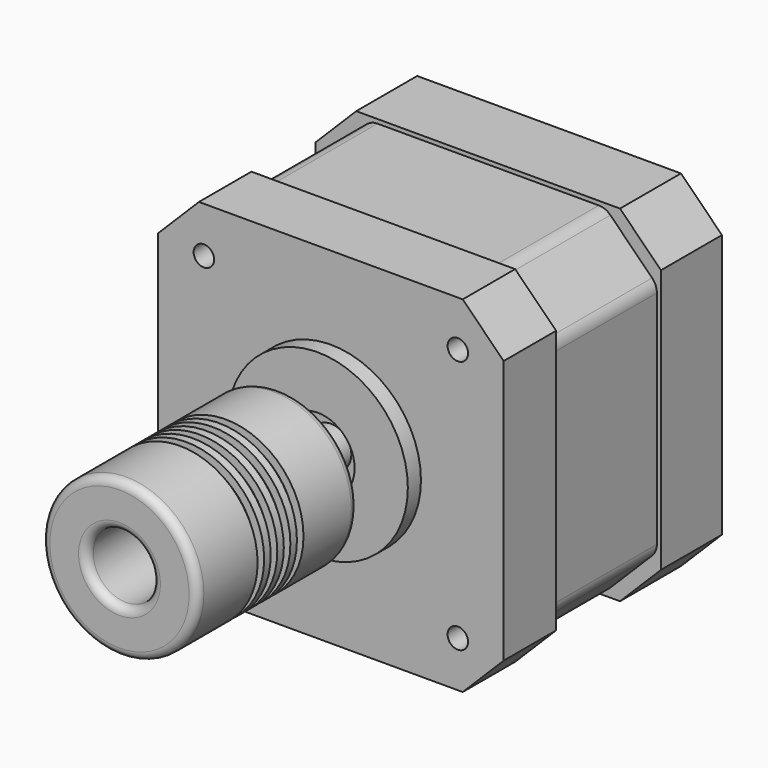
from build123d import *

# Parameters (mm, degrees)
F0_W      = 42.2
F0_H      = 42.2
F0_R      = 2.5
F1_DEPTH  = 33.3
F2_SIZE   = 5
F3_DEPTH  = 20
F4_R      = 11
F4_R_2    = 4.5
F5_DEPTH  = 2
F6_R      = 1.25
F7_DEPTH  = 5
F9_W      = 50.7564134896
F9_H      = 50.1955691725
F10_DEPTH = 16
F11_R     = 2
F12_R     = 9.5
F13_DEPTH = 12.25
F14_R     = 4
F15_DEPTH = 12.7
F16_R     = 1
F17_W     = 1
F17_H     = 1


with BuildPart() as f1:
    # F0 (on Front) → F1 (new body)
    with BuildSketch(Plane.XZ):
        Rectangle(F0_W, F0_H)
        Circle(F0_R, mode=Mode.SUBTRACT)
        Circle(F0_R)
    extrude(amount=-F1_DEPTH)

    # F2
    f2_edges = [f1.edges().sort_by_distance(p)[0] for p in [
        (21.1, 16.65, 21.1),
        (-21.1, 16.65, 21.1),
        (21.1, 16.65, -21.1),
        (-21.1, 16.65, -21.1),
    ]]
    chamfer(f2_edges, length=F2_SIZE)

    # F0 (on Front) → F3 (join)
    with BuildSketch(Plane.XZ):
        Circle(F0_R)
    extrude(amount=F3_DEPTH)

    # F4 (on face) → F5 (join)
    with BuildSketch(Plane.XZ):
        Circle(F4_R)
        Circle(F4_R_2, mode=Mode.SUBTRACT)
    extrude(amount=F5_DEPTH)

    # F6 (on face) → F7 (cut)
    with BuildSketch(Plane.XZ):
        with Locations((-15.5, 15.5)):
            Circle(F6_R)
        with Locations((-15.5, -15.5)):
            Circle(F6_R)
        with Locations((15.5, -15.5)):
            Circle(F6_R)
        with Locations((15.5, 15.5)):
            Circle(F6_R)
    extrude(amount=-F7_DEPTH, mode=Mode.SUBTRACT)

    # F9 (on offset) → F10 (cut)
    with BuildSketch(Plane.XZ.offset(-8)):
        with Locations((0.5305930972, 0.0707069412)):
            Rectangle(F9_W, F9_H)
        Polygon((-14.3372583002, 20.6), (0, 20.6), (14.3372583002, 20.6), (20.6, 14.3372583002), (20.6, 0), (20.6, -14.3372583002), (14.3372583002, -20.6), (0, -20.6), (-14.3372583002, -20.6), (-20.6, -14.3372583002), (-20.6, 0), (-20.6, 14.3372583002), align=None, mode=Mode.SUBTRACT)
    extrude(amount=-F10_DEPTH, mode=Mode.SUBTRACT)

    # F11
    f11_edges = [f1.edges().sort_by_distance(p)[0] for p in [
        (20.6, 16, 14.337258),
        (14.337258, 16, 20.6),
        (-14.337258, 16, 20.6),
        (-20.6, 16, 14.337258),
        (-20.6, 16, -14.337258),
        (-14.337258, 16, -20.6),
        (20.6, 16, -14.337258),
        (14.337258, 16, -20.6),
    ]]
    fillet(f11_edges, radius=F11_R)

    # F12 (on face) → F13 (join, symmetric)
    with BuildSketch(Plane.XZ.offset(20)):
        Circle(F12_R)
    extrude(amount=F13_DEPTH, both=True)

    # F14 (on face) → F15 (cut)
    with BuildSketch(Plane.XZ.offset(32.25)):
        Circle(F14_R)
    extrude(amount=-F15_DEPTH, mode=Mode.SUBTRACT)

    # F16
    f16_edges = [f1.edges().sort_by_distance(p)[0] for p in [
        (-9.5, -32.25, 0),
        (-9.5, -7.75, 0),
        (-4, -32.25, 0),
    ]]
    fillet(f16_edges, radius=F16_R)

    # F17 (on Right) → F18 (revolve, cut)
    with BuildSketch(Plane.YZ):
        with Locations((-16.55, 9)):
            Rectangle(F17_W, F17_H)
        with Locations((-18.55, 9)):
            Rectangle(F17_W, F17_H)
        with Locations((-20.55, 9)):
            Rectangle(F17_W, F17_H)
        with Locations((-22.55, 9)):
            Rectangle(F17_W, F17_H)
    revolve(axis=Axis((0, -8.7481234223, 0), (0, 1, 0)), mode=Mode.SUBTRACT)


solid = f1.part
